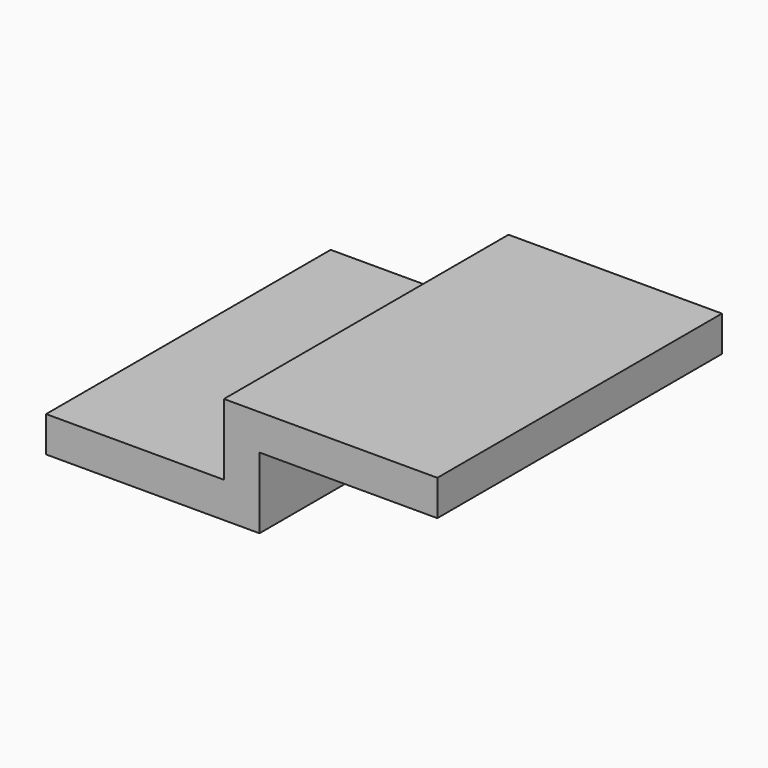
from build123d import *

# Parameters (mm, degrees)
PAD_DEPTH = 100


with BuildPart() as part:
    # Sketch → Pad (new body)
    with BuildSketch(Plane.XZ):
        Polygon((0, 0), (60, 0), (60, 20), (110, 20), (110, 30), (50, 30), (50, 10), (0, 10), align=None)
    extrude(amount=PAD_DEPTH)


solid = part.part
